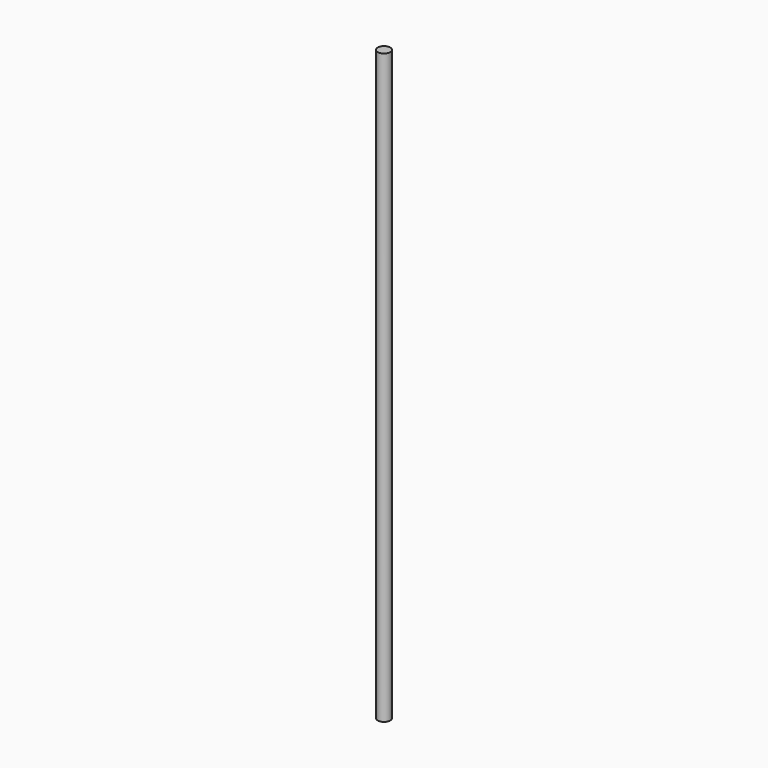
from build123d import *

# Parameters (mm, degrees)
SKETCH_R  = 1.5
PAD_DEPTH = 140


with BuildPart() as part:
    # Sketch → Pad (new body)
    with BuildSketch(Plane.XY):
        Circle(SKETCH_R)
    extrude(amount=PAD_DEPTH)


solid = part.part
